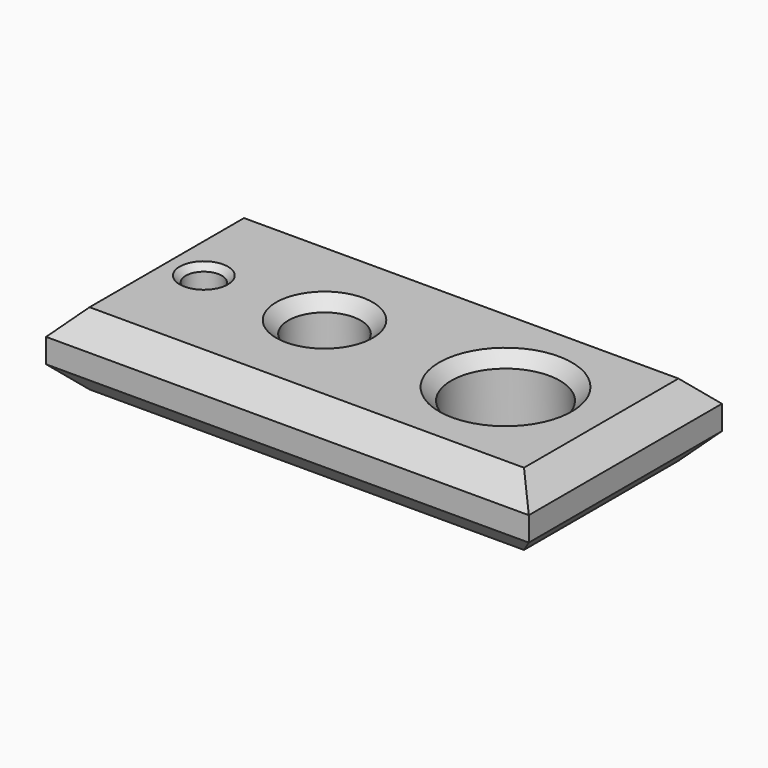
from build123d import *

# Parameters (mm, degrees)
F0_W           = 200
F0_H           = 100
F1_DEPTH       = 30
F2_D           = 15
F2_CSINK_D     = 20
F2_CSINK_ANGLE = 90
F3_D           = 30
F3_CSINK_D     = 40
F3_CSINK_ANGLE = 90
F4_D           = 45
F4_CSINK_D     = 55
F4_CSINK_ANGLE = 90
F5_SIZE        = 10


with BuildPart() as f1:
    # F0 (on Top) → F1 (new body)
    with BuildSketch(Plane.XY):
        with Locations((100, 50)):
            Rectangle(F0_W, F0_H)
    extrude(amount=-F1_DEPTH)

    # F2 (through all)
    with Locations(Plane.XY):
        with Locations((25, 50.437499)):
            CounterSinkHole(F2_D / 2, F2_CSINK_D / 2, counter_sink_angle=F2_CSINK_ANGLE)

    # F3 (through all)
    with Locations(Plane.XY):
        with Locations((75, 50.437499)):
            CounterSinkHole(F3_D / 2, F3_CSINK_D / 2, counter_sink_angle=F3_CSINK_ANGLE)

    # F4 (through all)
    with Locations(Plane.XY):
        with Locations((150, 50.437499)):
            CounterSinkHole(F4_D / 2, F4_CSINK_D / 2, counter_sink_angle=F4_CSINK_ANGLE)

    # F5
    f5_edges = [f1.edges().sort_by_distance(p)[0] for p in [
        (200, 50, 0),
        (200, 50, -30),
        (0, 50, 0),
        (0, 50, -30),
        (100, 100, 0),
        (100, 100, -30),
        (100, 0, 0),
        (100, 0, -30),
    ]]
    chamfer(f5_edges, length=F5_SIZE)


solid = f1.part
